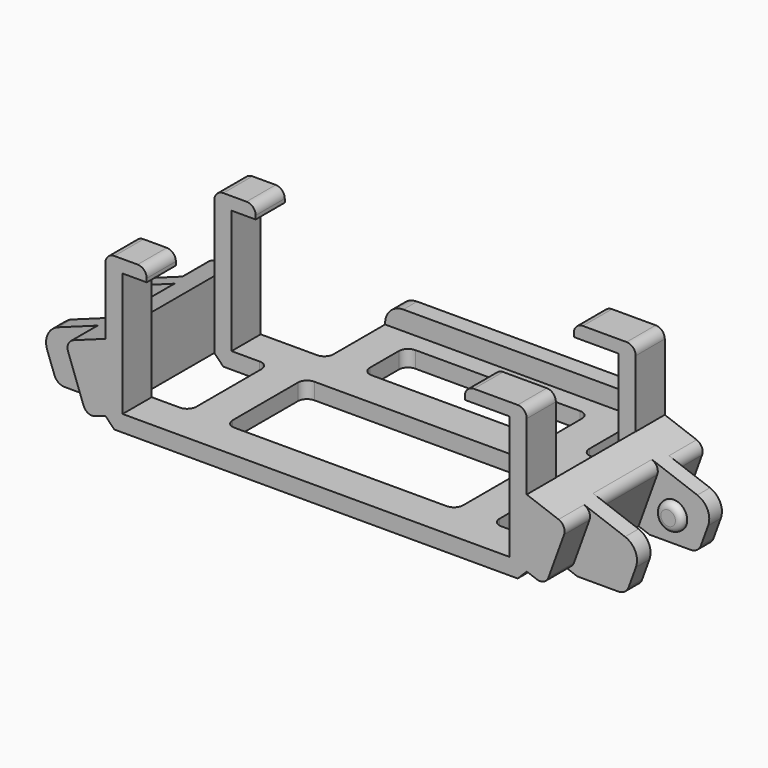
from build123d import *

# Parameters (mm, degrees)
PAD017_DEPTH            = 7
PAD018_START            = 94
SKETCH038_R             = 1.494352
PAD018_DEPTH            = 1.9
PAD019_START            = 102.52
SKETCH039_R             = 1.494352
PAD019_DEPTH            = 1.48
PAD020_START            = 94
SKETCH040_R             = 1.496549
PAD020_DEPTH            = 1.9
PAD021_START            = 102.52
SKETCH041_R             = 1.496549
PAD021_DEPTH            = 1.48
FILLET005_R             = 0.7
POCKET016_DEPTH         = 200
FILLET006_R             = 2
BODY012_PLACEMENT_ANGLE = 340
PAD013_START            = -0.1
SKETCH032_W             = 25.33
SKETCH032_H             = 10.97
PAD013_DEPTH            = 1.8
SKETCH033_W             = 1.9
SKETCH033_H             = 4
SKETCH033_W_2           = 4
SKETCH033_H_2           = 1.9
PAD014_DEPTH            = 14.5
PAD014_DEPTH_BACK       = 1
PAD015_START            = 13.5
SKETCH034_W             = 4.55
SKETCH034_H             = 4
SKETCH034_W_2           = 6.8
SKETCH034_W_3           = 4
SKETCH034_H_2           = 4.55
PAD015_DEPTH            = 1.4
SKETCH043_W             = 66.33
SKETCH043_H             = 16.501257
POCKET017_DEPTH         = 200
SKETCH044_W             = 4
SKETCH044_H             = 4.55
POCKET018_DEPTH         = 20
PAD022_START            = -0.1
SKETCH045_W             = 28.13
SKETCH045_H             = 10
PAD022_DEPTH            = 1.8
SKETCH046_W             = 28.13
SKETCH046_H             = 1.9
PAD023_DEPTH            = 2
PAD023_DEPTH_BACK       = 1
FILLET_R                = 2
CHAMFER001_SIZE         = 1
FILLET007_R             = 1
FILLET008_R             = 1
SKETCH047_W             = 20.13
SKETCH047_H             = 6
POCKET019_DEPTH         = 5
FILLET009_R             = 1
FILLET010_R             = 1
FILLET011_R             = 1
SKETCH048_W             = 13.262557
SKETCH048_H             = 3
SKETCH048_W_2           = 14.92772
SKETCH048_H_2           = 3.309628
SKETCH048_H_3           = 2.712628
POCKET020_DEPTH         = 8
POCKET020_DEPTH_BACK    = 5
FILLET012_R             = 1.2
FILLET013_R             = 1
FILLET014_R             = 1
FILLET015_R             = 1


with BuildPart() as strap_holder:
    # Sketch037 → Pad017 (new body)
    with BuildSketch(Plane.XY):
        Polygon((101.674004, -89.090002), (101.674004, -87.400002), (119.794004, -87.400002), (119.794004, -89.090002), (114.004004, -89.090002), (114.004004, -93.410002), (119.794004, -93.410002), (119.794004, -95.150002), (113.474004, -95.150002), (113.474004, -103.220002), (119.794004, -103.220002), (119.794004, -105.080002), (114.004004, -105.080002), (114.004004, -109.400002), (119.794004, -109.400002), (119.794004, -110.810002), (101.674004, -110.810002), (101.674004, -109.400002), (107.464004, -109.400002), (107.464004, -105.080002), (101.674004, -105.080002), (101.674004, -103.220002), (107.994004, -103.220002), (107.994004, -95.150002), (101.674004, -95.150002), (101.674004, -93.410002), (107.464004, -93.410002), (107.464004, -89.090002), align=None)
    extrude(amount=PAD017_DEPTH)

    # Sketch038 → Pad018 (join)
    with BuildSketch(Plane.XZ.offset(PAD018_START)):
        with Locations((116.29809, 3.501694)):
            Circle(SKETCH038_R)
    extrude(amount=PAD018_DEPTH)

    # Sketch039 → Pad019 (join)
    with BuildSketch(Plane.XZ.offset(PAD019_START)):
        with Locations((116.29809, 3.501694)):
            Circle(SKETCH039_R)
    extrude(amount=PAD019_DEPTH)

    # Sketch040 → Pad020 (join)
    with BuildSketch(Plane.XZ.offset(PAD020_START)):
        with Locations((105.169685, 3.499979)):
            Circle(SKETCH040_R)
    extrude(amount=PAD020_DEPTH)

    # Sketch041 → Pad021 (join)
    with BuildSketch(Plane.XZ.offset(PAD021_START)):
        with Locations((105.169685, 3.499979)):
            Circle(SKETCH041_R)
    extrude(amount=PAD021_DEPTH)

    # Fillet005
    fillet005_edges = [strap_holder.edges().sort_by_distance(p)[0] for p in [
        (103.673136, -95.9, 3.499979),
        (103.673136, -102.52, 3.499979),
        (114.803738, -95.9, 3.501694),
        (114.803738, -102.52, 3.501694),
    ]]
    fillet(fillet005_edges, radius=FILLET005_R)

    # Sketch042 → Pocket016 (cut)
    with BuildSketch(Plane.XZ):
        Polygon((109.294004, -1), (120.794004, -1), (120.794004, 8), (112.569736, 8), align=None)
    extrude(amount=POCKET016_DEPTH, mode=Mode.SUBTRACT)

    # Fillet006
    fillet006_edges = [strap_holder.edges().sort_by_distance(p)[0] for p in [
        (101.674004, -104.150002, 0),
        (101.674004, -110.105002, 0),
        (101.674004, -110.105002, 7),
        (101.674004, -104.150002, 7),
        (101.674004, -94.280002, 0),
        (101.674004, -94.280002, 7),
        (101.674004, -88.245002, 7),
        (101.674004, -88.245002, 0),
    ]]
    fillet(fillet006_edges, radius=FILLET006_R)


with BuildPart() as strap_holder_1:
    # Clone004 placement: moved
    add(strap_holder.part.moved(Location((-112.21, 87.4, -7))))


with BuildPart() as strap_holder_2:
    # Body012 placement: moved
    add(strap_holder_1.part.moved(Location((-22.946901, -33, 6.56173))).rotate(Axis((-22.946901, -33, 6.56173), (0, 1, 0)), BODY012_PLACEMENT_ANGLE))


with BuildPart() as body013:
    # Body013 base: copy of strap-holder
    add(strap_holder_2.part)


with BuildPart() as part_mirroring:
    # Part__Mirroring: instance of Body013
    add(body013.part.mirror(Plane(origin=(0, 0, 0), x_dir=(0, -1, 0), z_dir=(1, 0, 0))))


with BuildPart() as part_mirroring_1:
    # Part__Mirroring placement: moved
    add(part_mirroring.part.moved(Location((0.4, 0, 0))))


with BuildPart() as cage_final:
    # Sketch032 → Pad013 (new body)
    with BuildSketch(Plane.XY.offset(PAD013_START)):
        Polygon((6.264998, 90.085), (10.264998, 90.085), (10.264998, 80.085), (11.264998, 80.085), (23.365014, 80.085), (23.365014, 76.085), (16.365014, 76.085), (16.365014, 65.115), (23.365014, 65.115), (23.365014, 61.115), (-22.964986, 61.115), (-22.964986, 65.115), (-16.964986, 65.115), (-16.964986, 76.085), (-22.964986, 76.085), (-22.964986, 80.085), (6.264998, 80.085), align=None)
        with Locations((-0.299986, 70.6)):
            Rectangle(SKETCH032_W, SKETCH032_H, mode=Mode.SUBTRACT)
    extrude(amount=-PAD013_DEPTH)

    # Sketch033 → Pad014 (join, two sides)
    with BuildSketch(Plane.XY) as pad014_sk:
        with Locations((22.415014, 78.085)):
            Rectangle(SKETCH033_W, SKETCH033_H)
        with Locations((22.415014, 63.115)):
            Rectangle(SKETCH033_W, SKETCH033_H)
        with Locations((-22.014986, 78.085)):
            Rectangle(SKETCH033_W, SKETCH033_H)
        with Locations((-22.014986, 63.115)):
            Rectangle(SKETCH033_W, SKETCH033_H)
        with Locations((8.264998, 89.135)):
            Rectangle(SKETCH033_W_2, SKETCH033_H_2)
    extrude(amount=PAD014_DEPTH)
    extrude(pad014_sk.sketch, amount=-PAD014_DEPTH_BACK)

    # Sketch034 → Pad015 (join)
    with BuildSketch(Plane.XY.offset(PAD015_START)):
        with Locations((-20.689986, 63.115)):
            Rectangle(SKETCH034_W, SKETCH034_H)
        with Locations((19.965014, 63.115)):
            Rectangle(SKETCH034_W_2, SKETCH034_H)
        with Locations((19.965014, 78.085)):
            Rectangle(SKETCH034_W_2, SKETCH034_H)
        with Locations((8.264998, 87.81)):
            Rectangle(SKETCH034_W_3, SKETCH034_H_2)
        with Locations((-20.689986, 78.085)):
            Rectangle(SKETCH034_W, SKETCH034_H)
    extrude(amount=PAD015_DEPTH)


with BuildPart() as cage_final_1:
    # Body010 placement: moved
    add(cage_final.part.moved(Location((0, -57.7, 0))))


with BuildPart() as cage_final_2:
    # Body014 placement: moved
    add(cage_final_1.part.moved(Location((0, -57.6, 0))))


with BuildPart() as strap_holder001:
    # Fusion base: copy of strap-holder
    add(strap_holder_2.part)

    # Fusion: union Part__Mirroring, cage-final
    add(part_mirroring_1.part)
    add(cage_final_2.part)

    # Sketch043 → Pocket017 (cut)
    with BuildSketch(Plane.XZ):
        with Locations((0.200014, -10.150628)):
            Rectangle(SKETCH043_W, SKETCH043_H)
    extrude(amount=POCKET017_DEPTH, mode=Mode.SUBTRACT)

    # Sketch044 → Pocket018 (cut)
    with BuildSketch(Plane.XY):
        with Locations((8.264998, -27.49)):
            Rectangle(SKETCH044_W, SKETCH044_H)
    extrude(amount=POCKET018_DEPTH, mode=Mode.SUBTRACT)

    # Sketch045 → Pad022 (join)
    with BuildSketch(Plane.XY.offset(PAD022_START)):
        with Locations((0.200014, -30.215)):
            Rectangle(SKETCH045_W, SKETCH045_H)
    extrude(amount=-PAD022_DEPTH)

    # Sketch046 → Pad023 (join, two sides)
    with BuildSketch(Plane.XY) as pad023_sk:
        with Locations((0.200014, -26.165)):
            Rectangle(SKETCH046_W, SKETCH046_H)
    extrude(amount=PAD023_DEPTH)
    extrude(pad023_sk.sketch, amount=-PAD023_DEPTH_BACK)

    # Fillet
    fillet_edges = [strap_holder001.edges().sort_by_distance(p)[0] for p in [
        (14.265014, -26.165, 2),
        (-13.864986, -26.165, 2),
    ]]
    fillet(fillet_edges, radius=FILLET_R)

    # Chamfer001
    chamfer001_edges = [strap_holder001.edges().sort_by_distance(p)[0] for p in [
        (-22.964986, -52.185, -1.9),
        (23.365014, -52.185, -1.9),
        (23.365014, -37.215, -1.9),
        (-22.964986, -37.215, -1.9),
    ]]
    chamfer(chamfer001_edges, length=CHAMFER001_SIZE)

    # Fillet007
    fillet007_edges = [strap_holder001.edges().sort_by_distance(p)[0] for p in [
        (-18.414986, -37.215, 14.9),
        (-18.414986, -52.185, 14.9),
        (16.565014, -37.215, 14.9),
        (16.565014, -52.185, 14.9),
    ]]
    fillet(fillet007_edges, radius=FILLET007_R)

    # Fillet008
    fillet008_edges = [strap_holder001.edges().sort_by_distance(p)[0] for p in [
        (-22.964986, -37.215, 14.9),
        (23.365014, -37.215, 14.9),
        (23.365014, -52.185, 14.9),
        (-22.964986, -52.185, 14.9),
    ]]
    fillet(fillet008_edges, radius=FILLET008_R)

    # Sketch047 → Pocket019 (cut)
    with BuildSketch(Plane.XY):
        with Locations((0.200014, -32.215)):
            Rectangle(SKETCH047_W, SKETCH047_H)
    extrude(amount=-POCKET019_DEPTH, mode=Mode.SUBTRACT)

    # Fillet009
    fillet009_edges = [strap_holder001.edges().sort_by_distance(p)[0] for p in [
        (12.365014, -50.185, -1),
        (10.265014, -35.215, -1),
        (-9.864986, -35.215, -1),
        (-12.964986, -50.185, -1),
    ]]
    fillet(fillet009_edges, radius=FILLET009_R)

    # Fillet010
    fillet010_edges = [strap_holder001.edges().sort_by_distance(p)[0] for p in [
        (16.365014, -50.185, -1),
        (14.265014, -35.215, -1),
        (-16.964986, -50.185, -1),
        (-13.864986, -35.215, -1),
    ]]
    fillet(fillet010_edges, radius=FILLET010_R)

    # Fillet011
    fillet011_edges = [strap_holder001.edges().sort_by_distance(p)[0] for p in [
        (12.365014, -39.215, -1),
        (10.265014, -29.215, -1),
        (-12.964986, -39.215, -1),
        (-9.864986, -29.215, -1),
    ]]
    fillet(fillet011_edges, radius=FILLET011_R)

    # Sketch048 → Pocket020 (cut, two sides)
    with BuildSketch(Plane.XY) as pocket020_sk:
        with Locations((-29.582158, -33.715)):
            Rectangle(SKETCH048_W, SKETCH048_H)
        with Locations((30.814739, -33.715)):
            Rectangle(SKETCH048_W_2, SKETCH048_H)
        with Locations((30.814739, -55.839814)):
            Rectangle(SKETCH048_W_2, SKETCH048_H_2)
        with Locations((-29.582158, -55.541314)):
            Rectangle(SKETCH048_W, SKETCH048_H_3)
    extrude(amount=POCKET020_DEPTH, mode=Mode.SUBTRACT)
    extrude(pocket020_sk.sketch, amount=-POCKET020_DEPTH_BACK, mode=Mode.SUBTRACT)

    # Fillet012
    fillet012_edges = [strap_holder001.edges().sort_by_distance(p)[0] for p in [
        (-31.071304, -39.880002, -1.9),
        (-31.071304, -49.750002, -1.9),
        (31.471304, -39.880002, -1.9),
        (31.471304, -49.750002, -1.9),
    ]]
    fillet(fillet012_edges, radius=FILLET012_R)

    # Fillet013
    fillet013_edges = [strap_holder001.edges().sort_by_distance(p)[0] for p in [
        (-26.908641, -44.785002, 5.119775),
        (-27.406678, -52.432501, 4.938504),
        (-27.406678, -37.112501, 4.938504),
        (27.806678, -37.112501, 4.938504),
        (27.308641, -44.785002, 5.119775),
        (27.806678, -52.432501, 4.938504),
    ]]
    fillet(fillet013_edges, radius=FILLET013_R)

    # Fillet014
    fillet014_edges = [strap_holder001.edges().sort_by_distance(p)[0] for p in [
        (25.412537, -37.112501, -1.639344),
        (25.412537, -52.432501, -1.639344),
        (-25.012537, -37.112501, -1.639344),
        (-25.012537, -52.432501, -1.639344),
    ]]
    fillet(fillet014_edges, radius=FILLET014_R)

    # Fillet015
    fillet015_edges = [strap_holder001.edges().sort_by_distance(p)[0] for p in [
        (16.365014, -39.215, -1),
        (-16.964986, -39.215, -1),
    ]]
    fillet(fillet015_edges, radius=FILLET015_R)


with BuildPart() as strap_holder001_1:
    # Body015 placement: moved
    add(strap_holder001.part.moved(Location((0, 57.6, 0))))


solid = strap_holder001_1.part
